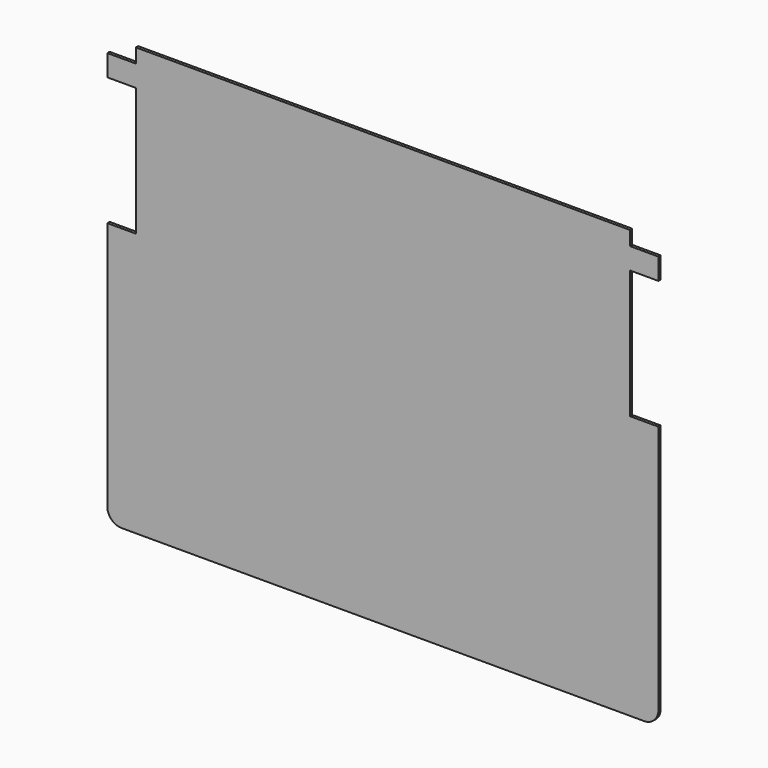
from build123d import *

# Parameters (mm, degrees)
F1_DEPTH = 0.2


with BuildPart() as f1:
    # F0 (on Front) → F1 (new body)
    with BuildSketch(Plane.XZ):
        with BuildLine():
            Line((17.325, -11.5), (17.325, -2.5))
            Line((17.325, -2.5), (19.325, -2.5))
            Line((19.325, -2.5), (19.325, -1))
            Line((19.325, -1), (17.325, -1))
            Line((17.325, -1), (17.325, 0))
            Line((17.325, 0), (-17.325, 0))
            Line((-17.325, 0), (-17.325, -1))
            Line((-17.325, -1), (-19.325, -1))
            Line((-19.325, -1), (-19.325, -2.5))
            Line((-19.325, -2.5), (-17.325, -2.5))
            Line((-17.325, -2.5), (-17.325, -11.5))
            Line((-17.325, -11.5), (-19.325, -11.5))
            Line((-19.325, -11.5), (-19.325, -29))
            ThreePointArc((-19.325, -29), (-19.032107, -29.707107), (-18.325, -30))
            Line((-18.325, -30), (18.325, -30))
            ThreePointArc((18.325, -30), (19.032107, -29.707107), (19.325, -29))
            Line((19.325, -29), (19.325, -11.5))
            Line((19.325, -11.5), (17.325, -11.5))
        make_face()
    extrude(amount=-F1_DEPTH)


solid = f1.part
